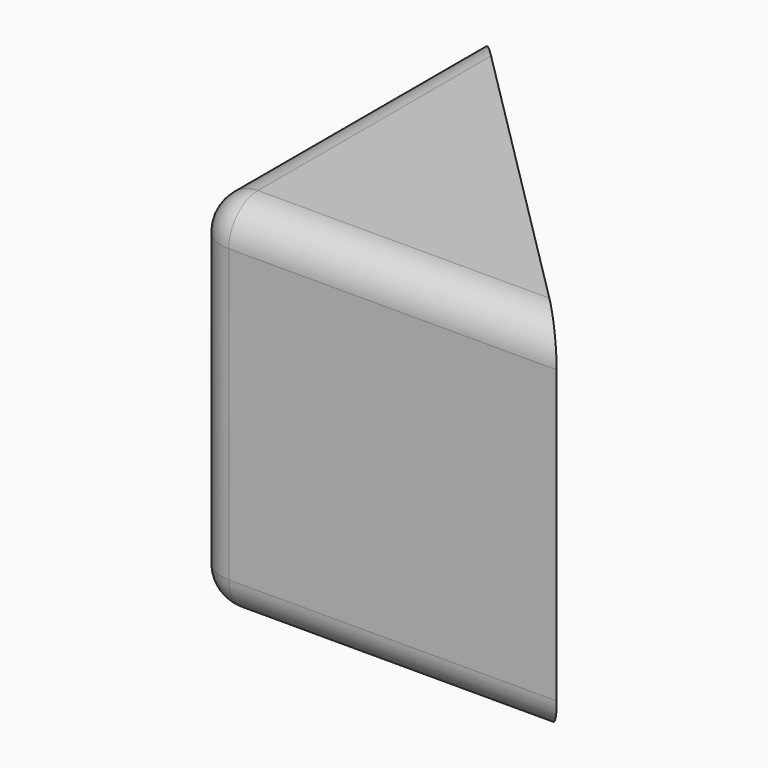
from build123d import *

# Parameters (mm, degrees)
F1_DEPTH = 50
F2_R     = 5
F3_T     = -2.5


with BuildPart() as f1:
    # F0 (on Top) → F1 (new body)
    with BuildSketch(Plane.XY):
        Polygon((-4.141866, 45.817343), (-4.141866, -4.182657), (45.858134, -4.182657), align=None)
    extrude(amount=F1_DEPTH)

    # F2
    f2_edges = [f1.edges().sort_by_distance(p)[0] for p in [
        (-4.141866, -4.182657, 25),
        (20.858134, -4.182657, 0),
        (-4.141866, 20.817343, 0),
        (-4.141866, 20.817343, 50),
        (20.858134, -4.182657, 50),
    ]]
    fillet(f2_edges, radius=F2_R)

    # F3
    f3_openings = [f1.faces().sort_by_distance(p)[0] for p in [
        (20.858134, 20.817343, 25),
    ]]
    offset(amount=F3_T, openings=f3_openings)


solid = f1.part
